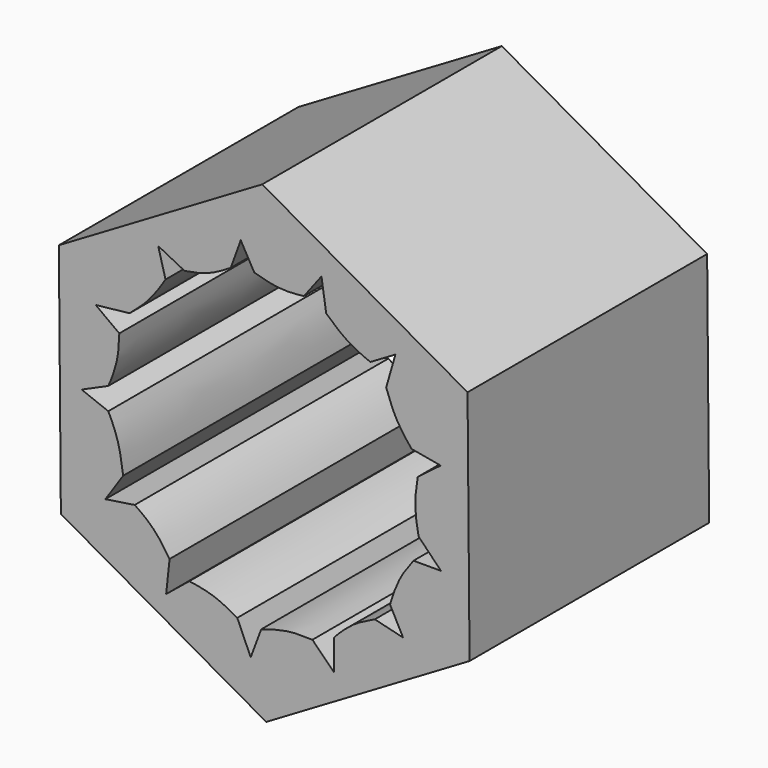
from build123d import *

# Parameters (mm, degrees)
F1_DEPTH = 9
F2_SIZE  = 0.5


with BuildPart() as f1:
    # F0 (on Front) → F1 (new body)
    with BuildSketch(Plane.XZ):
        Polygon((5.771239479, 3.3979594185), (-0.057099438, 6.6970197094), (-5.8283389169, 3.2990602908), (-5.771239479, -3.3979594185), (0.057099438, -6.6970197094), (5.8283389169, -3.2990602908), align=None)
        with BuildLine():
            add(Edge.make_bspline(
                [(-4.1123446832, 1.6552429256), (-4.1174787775, 1.411329486), (-4.1500733637, 0.925537621), (-4.325246506, 0.4676303043), (-4.4248853183, 0.2399919724)],
                knots=[0.1654680305, 0.1654680305, 0.1654680305, 0.1654680305, 0.4981922517, 0.8338193254, 0.8338193254, 0.8338193254, 0.8338193254], degree=3))
            Line((-4.1123446832, 1.6552429256), (-4.7825924335, 2.147149279))
            Line((-4.7825924335, 2.147149279), (-3.8203382814, 2.2527694981))
            add(Edge.make_bspline(
                [(-3.8203382814, 2.2527694981), (-3.6264101242, 2.412883771), (-3.2450169042, 2.7547368534), (-2.9460164758, 3.1949170496), (-2.8009872015, 3.4272985006)],
                knots=[0.1618034438, 0.1618034438, 0.1618034438, 0.1618034438, 0.4904688292, 0.8308115665, 0.8308115665, 0.8308115665, 0.8308115665], degree=3))
            Line((-2.8009872015, 3.4272985006), (-3.009358343, 4.1993869056))
            Line((-3.009358343, 4.1993869056), (-2.2615699073, 3.8194522076))
            add(Edge.make_bspline(
                [(-2.2615699073, 3.8194522076), (-2.0403463186, 3.8514725128), (-1.5889015237, 3.9418806441), (-1.1642693862, 4.1852821428), (-0.9481149286, 4.3239350164)],
                knots=[0.1595627595, 0.1595627595, 0.1595627595, 0.1595627595, 0.4847715969, 0.8295051617, 0.8295051617, 0.8295051617, 0.8295051617], degree=3))
            Line((-0.9481149286, 4.3239350164), (-0.6656752564, 5.1032288397))
            Line((-0.6656752564, 5.1032288397), (-0.2814478202, 4.4221181091))
            add(Edge.make_bspline(
                [(-0.2814478202, 4.4221181091), (-0.0475204769, 4.3494489431), (0.4180814718, 4.2302011817), (0.8906361121, 4.261042496), (1.1257445194, 4.2885900376)],
                knots=[0.1667778488, 0.1667778488, 0.1667778488, 0.1667778488, 0.5036930477, 0.8356937369, 0.8356937369, 0.8356937369, 0.8356937369], degree=3))
            Line((1.1257445194, 4.2885900376), (1.6254587255, 4.9455818646))
            Line((1.6254587255, 4.9455818646), (1.7590165896, 4.0634635146))
            add(Edge.make_bspline(
                [(1.7590165896, 4.0634635146), (1.9516755707, 3.8838712943), (2.3398013561, 3.5520856406), (2.7878134674, 3.3473103351), (3.0118703972, 3.2562815915)],
                knots=[0.1686500373, 0.1686500373, 0.1686500373, 0.1686500373, 0.5090727407, 0.8370846142, 0.8370846142, 0.8370846142, 0.8370846142], degree=3))
            Line((3.0118703972, 3.2562815915), (3.7244220819, 3.6758139496))
            Line((3.7244220819, 3.6758139496), (3.4614664388, 2.767384373))
            add(Edge.make_bspline(
                [(3.4614664388, 2.767384373), (3.5417461863, 2.5274125007), (3.7219735139, 2.0595083937), (4.022538142, 1.6596363104), (4.182542038, 1.4656475082)],
                knots=[0.1652961564, 0.1652961564, 0.1652961564, 0.1652961564, 0.5005752218, 0.8347778047, 0.8347778047, 0.8347778047, 0.8347778047], degree=3))
            Line((4.182542038, 1.4656475082), (5.0096104241, 1.3197048267))
            Line((5.0096104241, 1.3197048267), (4.3567863345, 0.8223262081))
            add(Edge.make_bspline(
                [(4.3567863345, 0.8223262081), (4.3146279079, 0.580695946), (4.2520460753, 0.0913297677), (4.3308041169, -0.4057707033), (4.3815805084, -0.6572954773)],
                knots=[0.1639086104, 0.1639086104, 0.1639086104, 0.1639086104, 0.4951390174, 0.8328828627, 0.8328828627, 0.8328828627, 0.8328828627], degree=3))
            Line((4.3815805084, -0.6572954773), (5.016087005, -1.3095750167))
            Line((5.016087005, -1.3095750167), (4.2368834794, -1.3095750167))
            add(Edge.make_bspline(
                [(4.2368834794, -1.3095750167), (4.0886648144, -1.4989078417), (3.8067923335, -1.8960921072), (3.6441596385, -2.3714968484), (3.5713788507, -2.6192273034)],
                knots=[0.1632176788, 0.1632176788, 0.1632176788, 0.1632176788, 0.4922900583, 0.8315491328, 0.8315491328, 0.8315491328, 0.8315491328], degree=3))
            Line((3.5713788507, -2.6192273034), (3.9412326893, -3.3271131047))
            Line((3.9412326893, -3.3271131047), (3.139059723, -3.1311374767))
            add(Edge.make_bspline(
                [(3.139059723, -3.1311374767), (2.9192288697, -3.2288079799), (2.4905584361, -3.445089303), (2.1442178415, -3.7858182118), (1.9766546194, -3.9665931306)],
                knots=[0.1642840141, 0.1642840141, 0.1642840141, 0.1642840141, 0.4971634677, 0.8332358166, 0.8332358166, 0.8332358166, 0.8332358166], degree=3))
            Line((1.9766546194, -3.9665931306), (1.9766546194, -4.8269105444))
            Line((1.9766546194, -4.8269105444), (1.3685185895, -4.217423559))
            add(Edge.make_bspline(
                [(1.3685185895, -4.217423559), (1.1249538803, -4.2058360658), (0.6350996935, -4.2053944064), (0.1557393345, -4.3463754391), (-0.0851970183, -4.4290614189)],
                knots=[0.1638104421, 0.1638104421, 0.1638104421, 0.1638104421, 0.49509585, 0.8323336044, 0.8323336044, 0.8323336044, 0.8323336044], degree=3))
            Line((-0.0851970183, -4.4290614189), (-0.3831844502, -5.2268570406))
            Line((-0.3831844502, -5.2268570406), (-0.7645896939, -4.3637078397))
            add(Edge.make_bspline(
                [(-0.7645896939, -4.3637078397), (-0.9818357622, -4.236433015), (-1.4173063734, -4.0082254227), (-1.8904356885, -3.9230966079), (-2.1267794111, -3.8917799757)],
                knots=[0.1672173978, 0.1672173978, 0.1672173978, 0.1672173978, 0.5057100699, 0.8361046679, 0.8361046679, 0.8361046679, 0.8361046679], degree=3))
            Line((-2.1267794111, -3.8917799757), (-2.7828615346, -4.4259875182))
            Line((-2.7828615346, -4.4259875182), (-2.6856618063, -3.5177582831))
            add(Edge.make_bspline(
                [(-2.6856618063, -3.5177582831), (-2.8267960426, -3.2977068408), (-3.1148828244, -2.8927455355), (-3.4878769032, -2.6141661912), (-3.675020495, -2.4890794933)],
                knots=[0.1709926301, 0.1709926301, 0.1709926301, 0.1709926301, 0.5162755372, 0.8403006819, 0.8403006819, 0.8403006819, 0.8403006819], degree=3))
            Line((-3.675020495, -2.4890794933), (-4.5076293021, -2.6161145871))
            Line((-4.5076293021, -2.6161145871), (-4.0035495268, -1.8664072081))
            add(Edge.make_bspline(
                [(-4.0035495268, -1.8664072081), (-4.0395064471, -1.5730373445), (-4.1268579509, -1.0348551439), (-4.3242225424, -0.5925714681), (-4.4253310095, -0.391094776)],
                knots=[0.1759644155, 0.1759644155, 0.1759644155, 0.1759644155, 0.5294954292, 0.8448108675, 0.8448108675, 0.8448108675, 0.8448108675], degree=3))
            Line((-4.4253310095, -0.391094776), (-5.1825380257, -0.0970175081))
            Line((-5.1825380257, -0.0970175081), (-4.4248853183, 0.2399919724))
        make_face(mode=Mode.SUBTRACT)
    extrude(amount=F1_DEPTH)

    # F2
    f2_edges = [f1.edges().sort_by_distance(p)[0] for p in [
        (-2.942719, 0, 4.99804),
        (-5.799789, 0, -0.04945),
        (-2.85707, 0, -5.04749),
        (2.942719, 0, -4.99804),
        (5.799789, 0, 0.04945),
        (2.85707, 0, 5.04749),
    ]]
    chamfer(f2_edges, length=F2_SIZE)


solid = f1.part
